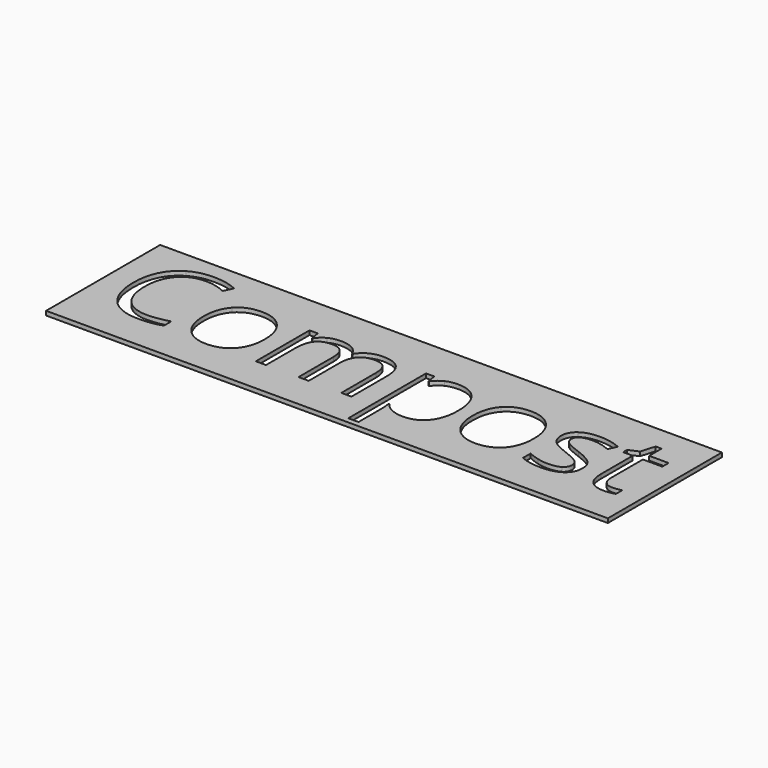
from build123d import *

# Parameters (mm, degrees)
F0_W     = 120.4031739831
F0_H     = 30.5607751891
F1_DEPTH = 0.9


with BuildPart() as f1:
    # F0 (on Top) → F1 (new body)
    with BuildSketch(Plane.XY):
        with Locations((-2.1675229073, -2.1692926851)):
            Rectangle(F0_W, F0_H)
        with BuildLine():
            add(Edge.make_bspline(
                [(-29.1143421917, 2.810413683), (-27.3371907855, 0.802463393), (-27.3371907855, -2.6175564323)],
                knots=[0, 0, 0, 1, 1, 1], degree=2))
            add(Edge.make_bspline(
                [(-27.3371907855, -2.6175564323), (-27.3371907855, -6.1340921544), (-29.105949505, -8.1084716977)],
                knots=[0, 0, 0, 1, 1, 1], degree=2))
            add(Edge.make_bspline(
                [(-29.105949505, -8.1084716977), (-30.8747082244, -10.082851241), (-33.9967876722, -10.082851241)],
                knots=[0, 0, 0, 1, 1, 1], degree=2))
            add(Edge.make_bspline(
                [(-33.9967876722, -10.082851241), (-35.9271056104, -10.082851241), (-37.4210038408, -9.1764410787)],
                knots=[0, 0, 0, 1, 1, 1], degree=2))
            add(Edge.make_bspline(
                [(-37.4210038408, -9.1764410787), (-38.9149020712, -8.2700309165), (-39.7289926799, -6.5789045489)],
                knots=[0, 0, 0, 1, 1, 1], degree=2))
            add(Edge.make_bspline(
                [(-39.7289926799, -6.5789045489), (-40.5430832887, -4.8877781813), (-40.5430832887, -2.6175564323)],
                knots=[0, 0, 0, 1, 1, 1], degree=2))
            add(Edge.make_bspline(
                [(-40.5430832887, -2.6175564323), (-40.5430832887, 0.8947829465), (-38.7848154276, 2.8565734598)],
                knots=[0, 0, 0, 1, 1, 1], degree=2))
            add(Edge.make_bspline(
                [(-38.7848154276, 2.8565734598), (-37.0265475665, 4.818363973), (-33.9044681187, 4.818363973)],
                knots=[0, 0, 0, 1, 1, 1], degree=2))
            add(Edge.make_bspline(
                [(-33.9044681187, 4.818363973), (-30.8914935978, 4.818363973), (-29.1143421917, 2.810413683)],
                knots=[0, 0, 0, 1, 1, 1], degree=2))
        make_face(mode=Mode.SUBTRACT)
        with BuildLine():
            Line((-3.0235774512, -9.8184816103), (-5.1972833033, -9.8184816103))
            Line((-5.1972833033, -9.8184816103), (-5.1972833033, -0.4690286402))
            add(Edge.make_bspline(
                [(-5.1972833033, -0.4690286402), (-5.1972833033, 1.2514721307), (-5.9316433885, 2.1096243446)],
                knots=[0, 0, 0, 1, 1, 1], degree=2))
            add(Edge.make_bspline(
                [(-5.9316433885, 2.1096243446), (-6.6660034737, 2.9677765584), (-8.2144541676, 2.9677765584)],
                knots=[0, 0, 0, 1, 1, 1], degree=2))
            add(Edge.make_bspline(
                [(-8.2144541676, 2.9677765584), (-10.245484346, 2.9677765584), (-11.2169378301, 1.8011931088)],
                knots=[0, 0, 0, 1, 1, 1], degree=2))
            add(Edge.make_bspline(
                [(-11.2169378301, 1.8011931088), (-12.1883913142, 0.6346096592), (-12.1883913142, -1.7908767935)],
                knots=[0, 0, 0, 1, 1, 1], degree=2))
            Line((-12.1883913142, -1.7908767935), (-12.1883913142, -9.8184816103))
            Line((-12.1883913142, -9.8184816103), (-14.3662935097, -9.8184816103))
            Line((-14.3662935097, -9.8184816103), (-14.3662935097, -0.4690286402))
            add(Edge.make_bspline(
                [(-14.3662935097, -0.4690286402), (-14.3662935097, 1.2514721307), (-15.1006535948, 2.1096243446)],
                knots=[0, 0, 0, 1, 1, 1], degree=2))
            add(Edge.make_bspline(
                [(-15.1006535948, 2.1096243446), (-15.83501368, 2.9677765584), (-17.3960534039, 2.9677765584)],
                knots=[0, 0, 0, 1, 1, 1], degree=2))
            add(Edge.make_bspline(
                [(-17.3960534039, 2.9677765584), (-19.4396726124, 2.9677765584), (-20.3901443798, 1.742444302)],
                knots=[0, 0, 0, 1, 1, 1], degree=2))
            add(Edge.make_bspline(
                [(-20.3901443798, 1.742444302), (-21.3406161472, 0.5171120456), (-21.3406161472, -2.2776526214)],
                knots=[0, 0, 0, 1, 1, 1], degree=2))
            Line((-21.3406161472, -2.2776526214), (-21.3406161472, -9.8184816103))
            Line((-21.3406161472, -9.8184816103), (-23.5185183426, -9.8184816103))
            Line((-23.5185183426, -9.8184816103), (-23.5185183426, 4.5539943424))
            Line((-23.5185183426, 4.5539943424), (-21.7476614515, 4.5539943424))
            Line((-21.7476614515, 4.5539943424), (-21.3951686106, 2.5859093141))
            Line((-21.3951686106, 2.5859093141), (-21.290260027, 2.5859093141))
            add(Edge.make_bspline(
                [(-21.290260027, 2.5859093141), (-20.6733975555, 3.6349951501), (-19.550875711, 4.2266795615)],
                knots=[0, 0, 0, 1, 1, 1], degree=2))
            add(Edge.make_bspline(
                [(-19.550875711, 4.2266795615), (-18.4283538665, 4.818363973), (-17.0393642197, 4.818363973)],
                knots=[0, 0, 0, 1, 1, 1], degree=2))
            add(Edge.make_bspline(
                [(-17.0393642197, 4.818363973), (-13.6697005146, 4.818363973), (-12.6332037087, 2.3760921469)],
                knots=[0, 0, 0, 1, 1, 1], degree=2))
            Line((-12.6332037087, 2.3760921469), (-12.5282951251, 2.3760921469))
            add(Edge.make_bspline(
                [(-12.5282951251, 2.3760921469), (-11.8862545935, 3.5049085064), (-10.6672168521, 4.1616362397)],
                knots=[0, 0, 0, 1, 1, 1], degree=2))
            add(Edge.make_bspline(
                [(-10.6672168521, 4.1616362397), (-9.4481791107, 4.818363973), (-7.8871393868, 4.818363973)],
                knots=[0, 0, 0, 1, 1, 1], degree=2))
            add(Edge.make_bspline(
                [(-7.8871393868, 4.818363973), (-5.449063904, 4.818363973), (-4.2363206776, 3.5657554849)],
                knots=[0, 0, 0, 1, 1, 1], degree=2))
            add(Edge.make_bspline(
                [(-4.2363206776, 3.5657554849), (-3.0235774512, 2.3131469967), (-3.0235774512, -0.4438505802)],
                knots=[0, 0, 0, 1, 1, 1], degree=2))
            Line((-3.0235774512, -0.4438505802), (-3.0235774512, -9.8184816103))
        make_face(mode=Mode.SUBTRACT)
        with BuildLine():
            add(Edge.make_bspline(
                [(12.5385618395, -8.1210607278), (10.9586385705, -10.082851241), (8.1512848735, -10.082851241)],
                knots=[0, 0, 0, 1, 1, 1], degree=2))
            add(Edge.make_bspline(
                [(8.1512848735, -10.082851241), (6.7455098533, -10.082851241), (5.5852209187, -9.564602838)],
                knots=[0, 0, 0, 1, 1, 1], degree=2))
            add(Edge.make_bspline(
                [(5.5852209187, -9.564602838), (4.4249319841, -9.0463544351), (3.6402157788, -7.9678941957)],
                knots=[0, 0, 0, 1, 1, 1], degree=2))
            Line((3.6402157788, -7.9678941957), (3.4807547318, -7.9678941957))
            add(Edge.make_bspline(
                [(3.4807547318, -7.9678941957), (3.6402157788, -9.2267971989), (3.6402157788, -10.3556135584)],
                knots=[0, 0, 0, 1, 1, 1], degree=2))
            Line((3.6402157788, -10.3556135584), (3.6402157788, -16.2724576732))
            Line((3.6402157788, -16.2724576732), (1.4623135834, -16.2724576732))
            Line((1.4623135834, -16.2724576732), (1.4623135834, 4.5539943424))
            Line((1.4623135834, 4.5539943424), (3.2331704745, 4.5539943424))
            Line((3.2331704745, 4.5539943424), (3.5353071952, 2.5859093141))
            Line((3.5353071952, 2.5859093141), (3.6402157788, 2.5859093141))
            add(Edge.make_bspline(
                [(3.6402157788, 2.5859093141), (4.4794844476, 3.7692781371), (5.5936136054, 4.293821055)],
                knots=[0, 0, 0, 1, 1, 1], degree=2))
            add(Edge.make_bspline(
                [(5.5936136054, 4.293821055), (6.7077427632, 4.818363973), (8.1512848735, 4.818363973)],
                knots=[0, 0, 0, 1, 1, 1], degree=2))
            add(Edge.make_bspline(
                [(8.1512848735, 4.818363973), (11.0089946906, 4.818363973), (12.5637398995, 2.8628679748)],
                knots=[0, 0, 0, 1, 1, 1], degree=2))
            add(Edge.make_bspline(
                [(12.5637398995, 2.8628679748), (14.1184851084, 0.9073719766), (14.1184851084, -2.6175564323)],
                knots=[0, 0, 0, 1, 1, 1], degree=2))
            add(Edge.make_bspline(
                [(14.1184851084, -2.6175564323), (14.1184851084, -6.1592702145), (12.5385618395, -8.1210607278)],
                knots=[0, 0, 0, 1, 1, 1], degree=2))
        make_face(mode=Mode.SUBTRACT)
        with BuildLine():
            add(Edge.make_bspline(
                [(28.5476116963, 2.810413683), (30.3247631024, 0.802463393), (30.3247631024, -2.6175564323)],
                knots=[0, 0, 0, 1, 1, 1], degree=2))
            add(Edge.make_bspline(
                [(30.3247631024, -2.6175564323), (30.3247631024, -6.1340921544), (28.556004383, -8.1084716977)],
                knots=[0, 0, 0, 1, 1, 1], degree=2))
            add(Edge.make_bspline(
                [(28.556004383, -8.1084716977), (26.7872456635, -10.082851241), (23.6651662157, -10.082851241)],
                knots=[0, 0, 0, 1, 1, 1], degree=2))
            add(Edge.make_bspline(
                [(23.6651662157, -10.082851241), (21.7348482775, -10.082851241), (20.2409500471, -9.1764410787)],
                knots=[0, 0, 0, 1, 1, 1], degree=2))
            add(Edge.make_bspline(
                [(20.2409500471, -9.1764410787), (18.7470518167, -8.2700309165), (17.932961208, -6.5789045489)],
                knots=[0, 0, 0, 1, 1, 1], degree=2))
            add(Edge.make_bspline(
                [(17.932961208, -6.5789045489), (17.1188705993, -4.8877781813), (17.1188705993, -2.6175564323)],
                knots=[0, 0, 0, 1, 1, 1], degree=2))
            add(Edge.make_bspline(
                [(17.1188705993, -2.6175564323), (17.1188705993, 0.8947829465), (18.8771384604, 2.8565734598)],
                knots=[0, 0, 0, 1, 1, 1], degree=2))
            add(Edge.make_bspline(
                [(18.8771384604, 2.8565734598), (20.6354063214, 4.818363973), (23.7574857693, 4.818363973)],
                knots=[0, 0, 0, 1, 1, 1], degree=2))
            add(Edge.make_bspline(
                [(23.7574857693, 4.818363973), (26.7704602902, 4.818363973), (28.5476116963, 2.810413683)],
                knots=[0, 0, 0, 1, 1, 1], degree=2))
        make_face(mode=Mode.SUBTRACT)
        with BuildLine():
            add(Edge.make_bspline(
                [(42.5151405163, -3.5239665946), (43.4131579919, -4.4681438469), (43.4131579919, -5.8990969272)],
                knots=[0, 0, 0, 1, 1, 1], degree=2))
            add(Edge.make_bspline(
                [(43.4131579919, -5.8990969272), (43.4131579919, -7.9049490455), (41.9192597615, -8.9939001433)],
                knots=[0, 0, 0, 1, 1, 1], degree=2))
            add(Edge.make_bspline(
                [(41.9192597615, -8.9939001433), (40.4253615311, -10.082851241), (37.7229164176, -10.082851241)],
                knots=[0, 0, 0, 1, 1, 1], degree=2))
            add(Edge.make_bspline(
                [(37.7229164176, -10.082851241), (34.8652066005, -10.082851241), (33.2663997865, -9.1764410787)],
                knots=[0, 0, 0, 1, 1, 1], degree=2))
            Line((33.2663997865, -9.1764410787), (33.2663997865, -7.1579999303))
            add(Edge.make_bspline(
                [(33.2663997865, -7.1579999303), (34.3028965924, -7.6825428483), (35.488363587, -7.9825813974)],
                knots=[0, 0, 0, 1, 1, 1], degree=2))
            add(Edge.make_bspline(
                [(35.488363587, -7.9825813974), (36.6738305817, -8.2826199465), (37.7774688811, -8.2826199465)],
                knots=[0, 0, 0, 1, 1, 1], degree=2))
            add(Edge.make_bspline(
                [(37.7774688811, -8.2826199465), (39.4811842787, -8.2826199465), (40.3980852993, -7.7391934835)],
                knots=[0, 0, 0, 1, 1, 1], degree=2))
            add(Edge.make_bspline(
                [(40.3980852993, -7.7391934835), (41.31498632, -7.1957670204), (41.31498632, -6.079539691)],
                knots=[0, 0, 0, 1, 1, 1], degree=2))
            add(Edge.make_bspline(
                [(41.31498632, -6.079539691), (41.31498632, -5.2402710222), (40.5890189215, -4.6443902674)],
                knots=[0, 0, 0, 1, 1, 1], degree=2))
            add(Edge.make_bspline(
                [(40.5890189215, -4.6443902674), (39.863051523, -4.0485095125), (37.7480944777, -3.2344189038)],
                knots=[0, 0, 0, 1, 1, 1], degree=2))
            add(Edge.make_bspline(
                [(37.7480944777, -3.2344189038), (35.7422423593, -2.4874697886), (34.8966791755, -1.9293561239)],
                knots=[0, 0, 0, 1, 1, 1], degree=2))
            add(Edge.make_bspline(
                [(34.8966791755, -1.9293561239), (34.0511159918, -1.3712424592), (33.6377761724, -0.6641586057)],
                knots=[0, 0, 0, 1, 1, 1], degree=2))
            add(Edge.make_bspline(
                [(33.6377761724, -0.6641586057), (33.224436353, 0.0429252477), (33.224436353, 1.0248695902)],
                knots=[0, 0, 0, 1, 1, 1], degree=2))
            add(Edge.make_bspline(
                [(33.224436353, 1.0248695902), (33.224436353, 2.7831374513), (34.6553894333, 3.8007507121)],
                knots=[0, 0, 0, 1, 1, 1], degree=2))
            add(Edge.make_bspline(
                [(34.6553894333, 3.8007507121), (36.0863425135, 4.818363973), (38.5747741164, 4.818363973)],
                knots=[0, 0, 0, 1, 1, 1], degree=2))
            add(Edge.make_bspline(
                [(38.5747741164, 4.818363973), (40.8953519856, 4.818363973), (43.1152176145, 3.8741867207)],
                knots=[0, 0, 0, 1, 1, 1], degree=2))
            Line((43.1152176145, 3.8741867207), (42.3388940959, 2.1033298296))
            add(Edge.make_bspline(
                [(42.3388940959, 2.1033298296), (40.1777772738, 2.9929546185), (38.4195094127, 2.9929546185)],
                knots=[0, 0, 0, 1, 1, 1], degree=2))
            add(Edge.make_bspline(
                [(38.4195094127, 2.9929546185), (36.8710587188, 2.9929546185), (36.0842443419, 2.5082769622)],
                knots=[0, 0, 0, 1, 1, 1], degree=2))
            add(Edge.make_bspline(
                [(36.0842443419, 2.5082769622), (35.2974299649, 2.023599306), (35.2974299649, 1.1717416072)],
                knots=[0, 0, 0, 1, 1, 1], degree=2))
            add(Edge.make_bspline(
                [(35.2974299649, 1.1717416072), (35.2974299649, 0.5926462258), (35.5932721706, 0.1876990931)],
                knots=[0, 0, 0, 1, 1, 1], degree=2))
            add(Edge.make_bspline(
                [(35.5932721706, 0.1876990931), (35.8891143764, -0.2172480396), (36.543743938, -0.5844280822)],
                knots=[0, 0, 0, 1, 1, 1], degree=2))
            add(Edge.make_bspline(
                [(36.543743938, -0.5844280822), (37.1983734997, -0.9516081248), (39.0615499443, -1.6482011199)],
                knots=[0, 0, 0, 1, 1, 1], degree=2))
            add(Edge.make_bspline(
                [(39.0615499443, -1.6482011199), (41.6171230407, -2.5797893422), (42.5151405163, -3.5239665946)],
                knots=[0, 0, 0, 1, 1, 1], degree=2))
        make_face(mode=Mode.SUBTRACT)
        with BuildLine():
            add(Edge.make_bspline(
                [(-43.7952493801, 6.6143989242), (-45.9731515756, 7.6341103568), (-48.1510537711, 7.6341103568)],
                knots=[0, 0, 0, 1, 1, 1], degree=2))
            add(Edge.make_bspline(
                [(-48.1510537711, 7.6341103568), (-51.310900309, 7.6341103568), (-53.1405060069, 5.5296441698)],
                knots=[0, 0, 0, 1, 1, 1], degree=2))
            add(Edge.make_bspline(
                [(-53.1405060069, 5.5296441698), (-54.9701117048, 3.4251779829), (-54.9701117048, -0.234033413)],
                knots=[0, 0, 0, 1, 1, 1], degree=2))
            add(Edge.make_bspline(
                [(-54.9701117048, -0.234033413), (-54.9701117048, -3.9939570491), (-53.2055493287, -6.0480671159)],
                knots=[0, 0, 0, 1, 1, 1], degree=2))
            add(Edge.make_bspline(
                [(-53.2055493287, -6.0480671159), (-51.4409869527, -8.1021771827), (-48.1762318311, -8.1021771827)],
                knots=[0, 0, 0, 1, 1, 1], degree=2))
            add(Edge.make_bspline(
                [(-48.1762318311, -8.1021771827), (-46.1703797128, -8.1021771827), (-43.598021243, -7.3804061276)],
                knots=[0, 0, 0, 1, 1, 1], degree=2))
            Line((-43.598021243, -7.3804061276), (-43.598021243, -9.3317057825))
            add(Edge.make_bspline(
                [(-43.598021243, -9.3317057825), (-45.5912843313, -10.082851241), (-48.516135642, -10.082851241)],
                knots=[0, 0, 0, 1, 1, 1], degree=2))
            add(Edge.make_bspline(
                [(-48.516135642, -10.082851241), (-52.7502460759, -10.082851241), (-55.0519404, -7.5104927712)],
                knots=[0, 0, 0, 1, 1, 1], degree=2))
            add(Edge.make_bspline(
                [(-55.0519404, -7.5104927712), (-57.3536347242, -4.9381343014), (-57.3536347242, -0.2046590096)],
                knots=[0, 0, 0, 1, 1, 1], degree=2))
            add(Edge.make_bspline(
                [(-57.3536347242, -0.2046590096), (-57.3536347242, 2.7579593912), (-56.2458000814, 4.9862177068)],
                knots=[0, 0, 0, 1, 1, 1], degree=2))
            add(Edge.make_bspline(
                [(-56.2458000814, 4.9862177068), (-55.1379654386, 7.2144760224), (-53.0460882817, 8.4209247337)],
                knots=[0, 0, 0, 1, 1, 1], degree=2))
            add(Edge.make_bspline(
                [(-53.0460882817, 8.4209247337), (-50.9542111248, 9.6273734451), (-48.1216793677, 9.6273734451)],
                knots=[0, 0, 0, 1, 1, 1], degree=2))
            add(Edge.make_bspline(
                [(-48.1216793677, 9.6273734451), (-45.1087048468, 9.6273734451), (-42.8510721278, 8.527931489)],
                knots=[0, 0, 0, 1, 1, 1], degree=2))
            Line((-42.8510721278, 8.527931489), (-43.7952493801, 6.6143989242))
        make_face(mode=Mode.SUBTRACT)
        with BuildLine():
            add(Edge.make_bspline(
                [(49.9049011449, -7.5881251231), (50.5217636164, -8.2826199465), (51.5960275124, -8.2826199465)],
                knots=[0, 0, 0, 1, 1, 1], degree=2))
            add(Edge.make_bspline(
                [(51.5960275124, -8.2826199465), (52.1751228939, -8.2826199465), (52.7122548419, -8.1986930796)],
                knots=[0, 0, 0, 1, 1, 1], degree=2))
            add(Edge.make_bspline(
                [(52.7122548419, -8.1986930796), (53.2493867899, -8.1147662127), (53.5641125407, -8.0224466592)],
                knots=[0, 0, 0, 1, 1, 1], degree=2))
            Line((53.5641125407, -8.0224466592), (53.5641125407, -9.6883949667))
            add(Edge.make_bspline(
                [(53.5641125407, -9.6883949667), (53.2116196998, -9.8562487004), (52.5234193914, -9.9695499707)],
                knots=[0, 0, 0, 1, 1, 1], degree=2))
            add(Edge.make_bspline(
                [(52.5234193914, -9.9695499707), (51.835219083, -10.082851241), (51.2813017616, -10.082851241)],
                knots=[0, 0, 0, 1, 1, 1], degree=2))
            add(Edge.make_bspline(
                [(51.2813017616, -10.082851241), (47.1143328212, -10.082851241), (47.1143328212, -5.68927976)],
                knots=[0, 0, 0, 1, 1, 1], degree=2))
            Line((47.1143328212, -5.68927976), (47.1143328212, 2.8628679748))
            Line((47.1143328212, 2.8628679748), (45.0539282394, 2.8628679748))
            Line((45.0539282394, 2.8628679748), (45.0539282394, 3.9119538108))
            Line((45.0539282394, 3.9119538108), (47.1143328212, 4.818363973))
            Line((47.1143328212, 4.818363973), (48.0291356702, 7.8858909574))
            Line((48.0291356702, 7.8858909574), (49.2880386733, 7.8858909574))
            Line((49.2880386733, 7.8858909574), (49.2880386733, 4.5539943424))
            Line((49.2880386733, 4.5539943424), (53.4592039571, 4.5539943424))
            Line((53.4592039571, 4.5539943424), (53.4592039571, 2.8628679748))
            Line((53.4592039571, 2.8628679748), (49.2880386733, 2.8628679748))
            Line((49.2880386733, 2.8628679748), (49.2880386733, -5.5969602064))
            add(Edge.make_bspline(
                [(49.2880386733, -5.5969602064), (49.2880386733, -6.8936302997), (49.9049011449, -7.5881251231)],
                knots=[0, 0, 0, 1, 1, 1], degree=2))
        make_face(mode=Mode.SUBTRACT)
    extrude(amount=F1_DEPTH)


solid = f1.part
